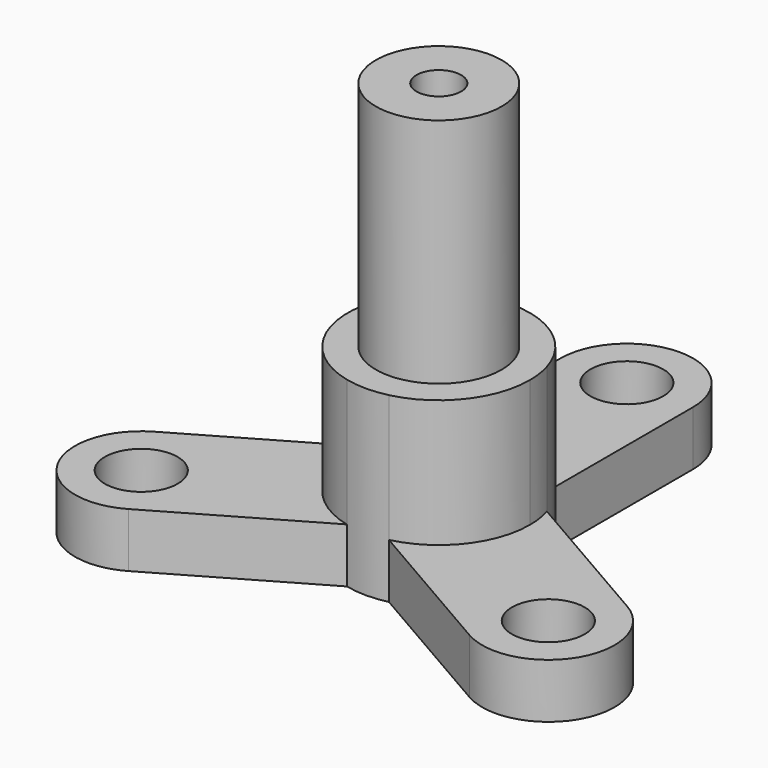
from build123d import *

# Parameters (mm, degrees)
F0_R     = 1.1
F0_R_2   = 2
F1_DEPTH = 1.65
F2_R     = 2
F3_DEPTH = 3.85
F4_R     = 2
F4_R_2   = 1.9
F4_R_3   = 0.675
F5_DEPTH = 0.5
F6_DEPTH = 7


with BuildPart() as f1:
    # F0 (on Top) → F1 (new body)
    with BuildSketch(Plane.XY):
        with BuildLine():
            ThreePointArc((-13.040082, 13.43275), (-11.040082, 14.295292), (-9.040082, 13.43275))
            Line((-9.040082, 13.43275), (-9.040082, 18.645292))
            ThreePointArc((-9.040082, 18.645292), (-11.040082, 20.645292), (-13.040082, 18.645292))
            Line((-13.040082, 18.645292), (-13.040082, 13.43275))
        make_face()
        with Locations((-11.040082, 18.645292)):
            Circle(F0_R, mode=Mode.SUBTRACT)
        with BuildLine():
            Line((-16.188862, 6.263241), (-11.674669, 8.869512))
            ThreePointArc((-11.674669, 8.869512), (-13.421652, 10.170292), (-13.674669, 12.333613))
            Line((-13.674669, 12.333613), (-18.188862, 9.727343))
            ThreePointArc((-18.188862, 9.727343), (-18.920913, 6.995292), (-16.188862, 6.263241))
        make_face()
        with Locations((-17.188862, 7.995292)):
            Circle(F0_R, mode=Mode.SUBTRACT)
        with BuildLine():
            ThreePointArc((-10.405495, 8.869512), (-8.882813, 9.839803), (-8.290082, 11.545292))
            ThreePointArc((-8.290082, 11.545292), (-8.319088, 11.943654), (-8.405495, 12.333613))
            ThreePointArc((-8.405495, 12.333613), (-8.658512, 12.920292), (-9.040082, 13.43275))
            ThreePointArc((-9.040082, 13.43275), (-11.040082, 14.295292), (-13.040082, 13.43275))
            ThreePointArc((-13.040082, 13.43275), (-13.421652, 12.920292), (-13.674669, 12.333613))
            ThreePointArc((-13.674669, 12.333613), (-13.421652, 10.170292), (-11.674669, 8.869512))
            ThreePointArc((-11.674669, 8.869512), (-11.040082, 8.795292), (-10.405495, 8.869512))
        make_face()
        with Locations((-11.040082, 11.545292)):
            Circle(F0_R_2, mode=Mode.SUBTRACT)
        with BuildLine():
            ThreePointArc((-8.405495, 12.333613), (-8.319088, 11.943654), (-8.290082, 11.545292))
            ThreePointArc((-8.290082, 11.545292), (-8.882813, 9.839803), (-10.405495, 8.869512))
            Line((-10.405495, 8.869512), (-5.891302, 6.263241))
            ThreePointArc((-5.891302, 6.263241), (-3.159251, 6.995292), (-3.891302, 9.727343))
            Line((-3.891302, 9.727343), (-8.405495, 12.333613))
        make_face()
        with Locations((-4.891302, 7.995292)):
            Circle(F0_R, mode=Mode.SUBTRACT)
    extrude(amount=F1_DEPTH)

    # F2 (on face) → F3 (join)
    with BuildSketch(Plane.XY.offset(1.65)):
        with BuildLine():
            ThreePointArc((-10.405495, 8.869512), (-8.882813, 9.839803), (-8.290082, 11.545292))
            ThreePointArc((-8.290082, 11.545292), (-8.319088, 11.943654), (-8.405495, 12.333613))
            ThreePointArc((-8.405495, 12.333613), (-8.658512, 12.920292), (-9.040082, 13.43275))
            ThreePointArc((-9.040082, 13.43275), (-11.040082, 14.295292), (-13.040082, 13.43275))
            ThreePointArc((-13.040082, 13.43275), (-13.421652, 12.920292), (-13.674669, 12.333613))
            ThreePointArc((-13.674669, 12.333613), (-13.421652, 10.170292), (-11.674669, 8.869512))
            ThreePointArc((-11.674669, 8.869512), (-11.040082, 8.795292), (-10.405495, 8.869512))
        make_face()
        with Locations((-11.040082, 11.545292)):
            Circle(F2_R, mode=Mode.SUBTRACT)
    extrude(amount=F3_DEPTH)

    # F4 (on face) → F5 (join)
    with BuildSketch(Plane.XY.offset(5.5)):
        with Locations((-11.040082, 11.545292)):
            Circle(F4_R)
        with Locations((-11.040082, 11.545292)):
            Circle(F4_R_2, mode=Mode.SUBTRACT)
        with Locations((-11.040082, 11.545292)):
            Circle(F4_R_2)
        with Locations((-11.040082, 11.545292)):
            Circle(F4_R_3, mode=Mode.SUBTRACT)
    extrude(amount=-F5_DEPTH)

    # F4 (on face) → F6 (join)
    with BuildSketch(Plane.XY.offset(5.5)):
        with Locations((-11.040082, 11.545292)):
            Circle(F4_R_2)
        with Locations((-11.040082, 11.545292)):
            Circle(F4_R_3, mode=Mode.SUBTRACT)
    extrude(amount=F6_DEPTH)


solid = f1.part
